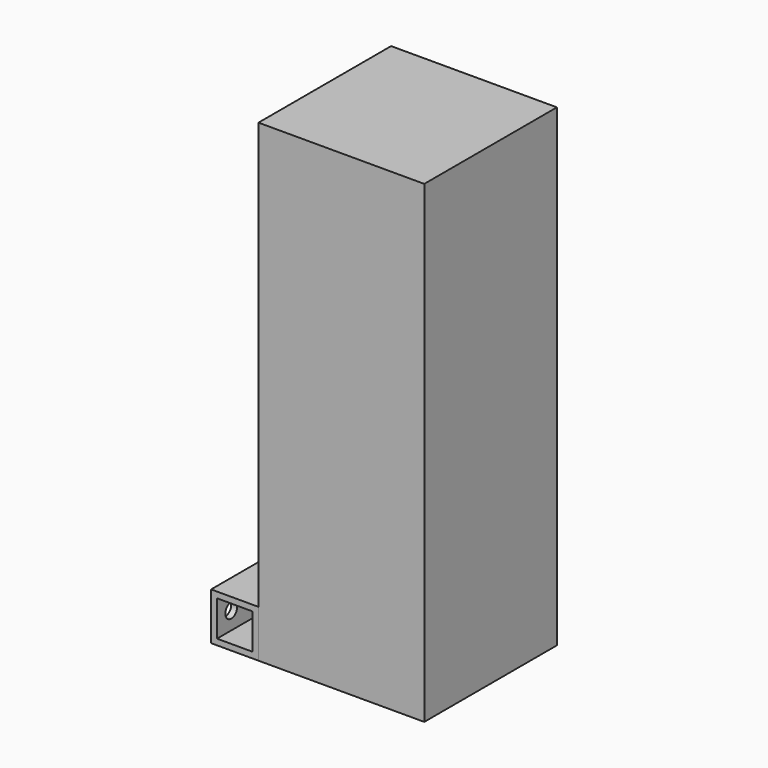
from build123d import *

# Parameters (mm, degrees)
F0_W     = 25.4
F0_H     = 25.4
F0_W_2   = 19.05
F0_H_2   = 19.05
F1_DEPTH = 88.9
F2_R     = 6.35
F3_DEPTH = 25.401
F4_R     = 2.38125
F5_DEPTH = 25.401
F6_R     = 3.96875
F7_DEPTH = 3.175
F8_W     = 88.9
F8_H     = 88.9
F9_DEPTH = 254


with BuildPart() as f1:
    # F0 (on Front) → F1 (new body)
    with BuildSketch(Plane.XZ):
        Rectangle(F0_W, F0_H)
        Rectangle(F0_W_2, F0_H_2, mode=Mode.SUBTRACT)
    extrude(amount=F1_DEPTH)

    # F2 (on face) → F3 (cut, through all)
    with BuildSketch(Plane.XY.offset(12.7)):
        with Locations((0, -44.45)):
            Circle(F2_R)
    extrude(amount=-F3_DEPTH, mode=Mode.SUBTRACT)

    # F4 (on face) → F5 (cut, through all)
    with BuildSketch(Plane(origin=(-12.7, 0, 0), x_dir=(0, -1, 0), z_dir=(-1, 0, 0))):
        with Locations((9.525, 0)):
            Circle(F4_R)
        with Locations((79.375, 0)):
            Circle(F4_R)
    extrude(amount=-F5_DEPTH, mode=Mode.SUBTRACT)

    # F6 (on face) → F7 (cut, through all)
    with BuildSketch(Plane(origin=(-12.7, 0, 0), x_dir=(0, -1, 0), z_dir=(-1, 0, 0))):
        with Locations((9.525, 0)):
            Circle(F6_R)
        with Locations((79.375, 0)):
            Circle(F6_R)
    extrude(amount=-F7_DEPTH, mode=Mode.SUBTRACT)


with BuildPart() as f9:
    # F8 (on face) → F9 (new body)
    with BuildSketch(Plane(origin=(0, 0, -12.7), x_dir=(1, 0, 0), z_dir=(0, 0, -1))):
        with Locations((57.15, 44.45)):
            Rectangle(F8_W, F8_H)
    extrude(amount=-F9_DEPTH)


solid = Compound([f1.part, f9.part])
